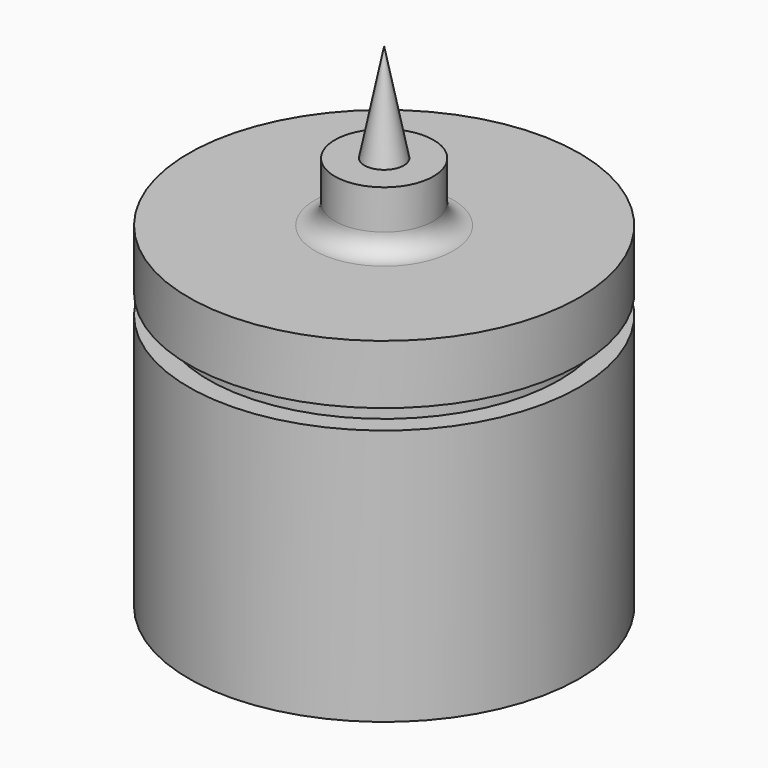
from build123d import *

# Parameters (mm, degrees)
F3_R = 2.54


with BuildPart() as f2:
    # F0 (on Front) → F2 (revolve)
    with BuildSketch(Plane.XZ):
        Polygon((0, 43.18), (0, 0), (25.146, 0), (25.146, 33.02), (22.606, 33.02), (22.606, 35.56), (25.146, 35.56), (25.146, 43.18), (6.35, 43.18), (6.35, 50.8), (3.175, 50.8), (0, 50.8), align=None)
    revolve(axis=Axis((0, 0, 20.32), (0, 0, 1)))

    # F3
    f3_edges = [f2.edges().sort_by_distance(p)[0] for p in [
        (-6.35, 0, 43.18),
    ]]
    fillet(f3_edges, radius=F3_R)


with BuildPart() as f6:
    # F4 (on Front) → F6 (revolve)
    with BuildSketch(Plane.XZ):
        Polygon((0, 50.8), (2.54, 50.8), (0, 63.5), align=None)
    revolve(axis=Axis((0, 0, 57.15), (0, 0, -1)))


solid = Compound([f2.part, f6.part])
